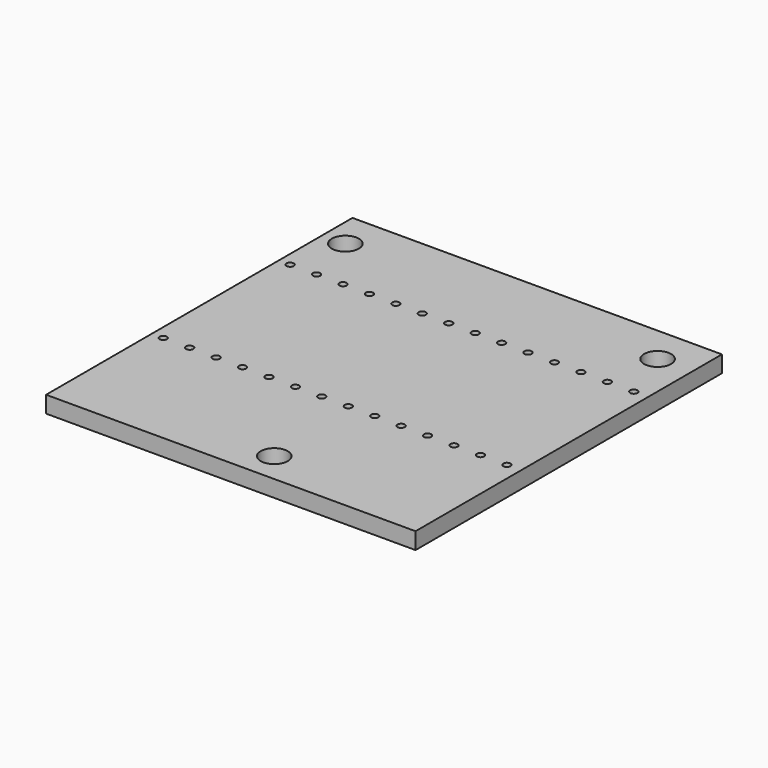
from build123d import *

# Parameters (mm, degrees)
CYLINDER008_R     = 0.35
CYLINDER008_DEPTH = 1.6
CYLINDER009_R     = 0.35
CYLINDER009_DEPTH = 1.6
CYLINDER013_R     = 0.35
CYLINDER013_DEPTH = 1.6
CYLINDER018_R     = 0.35
CYLINDER018_DEPTH = 1.6
CYLINDER012_R     = 0.35
CYLINDER012_DEPTH = 1.6
CYLINDER015_R     = 0.35
CYLINDER015_DEPTH = 1.6
CYLINDER014_R     = 0.35
CYLINDER014_DEPTH = 1.6
CYLINDER016_R     = 0.35
CYLINDER016_DEPTH = 1.6
CYLINDER011_R     = 0.35
CYLINDER011_DEPTH = 1.6
CYLINDER010_R     = 0.35
CYLINDER010_DEPTH = 1.6
CYLINDER019_R     = 0.35
CYLINDER019_DEPTH = 1.6
CYLINDER020_R     = 0.35
CYLINDER020_DEPTH = 1.6
CYLINDER017_R     = 0.35
CYLINDER017_DEPTH = 1.6
CYLINDER004_R     = 0.35
CYLINDER004_DEPTH = 1.6
CYLINDER002_R     = 1.3
CYLINDER002_DEPTH = 1.6
CYLINDER001_R     = 1.3
CYLINDER001_DEPTH = 1.6
CYLINDER_R        = 1.3
CYLINDER_DEPTH    = 1.6
BOX_W             = 35.5
BOX_H             = 36.8
BOX_DEPTH         = 1.6


with BuildPart() as cylinder008:
    # Cylinder008 → Cylinder008 (new body)
    with BuildSketch(Plane(origin=(1.1, 12.7, 0), x_dir=(1, 0, 0), z_dir=(0, 0, 1))):
        Circle(CYLINDER008_R)
    extrude(amount=CYLINDER008_DEPTH)


with BuildPart() as cylinder009:
    # Cylinder009 → Cylinder009 (new body)
    with BuildSketch(Plane(origin=(8.72, 12.7, 0), x_dir=(1, 0, 0), z_dir=(0, 0, 1))):
        Circle(CYLINDER009_R)
    extrude(amount=CYLINDER009_DEPTH)


with BuildPart() as cylinder013:
    # Cylinder013 → Cylinder013 (new body)
    with BuildSketch(Plane(origin=(18.88, 12.7, 0), x_dir=(1, 0, 0), z_dir=(0, 0, 1))):
        Circle(CYLINDER013_R)
    extrude(amount=CYLINDER013_DEPTH)


with BuildPart() as cylinder018:
    # Cylinder018 → Cylinder018 (new body)
    with BuildSketch(Plane(origin=(34.12, 12.7, 0), x_dir=(1, 0, 0), z_dir=(0, 0, 1))):
        Circle(CYLINDER018_R)
    extrude(amount=CYLINDER018_DEPTH)


with BuildPart() as cylinder012:
    # Cylinder012 → Cylinder012 (new body)
    with BuildSketch(Plane(origin=(13.8, 12.7, 0), x_dir=(1, 0, 0), z_dir=(0, 0, 1))):
        Circle(CYLINDER012_R)
    extrude(amount=CYLINDER012_DEPTH)


with BuildPart() as cylinder015:
    # Cylinder015 → Cylinder015 (new body)
    with BuildSketch(Plane(origin=(21.42, 12.7, 0), x_dir=(1, 0, 0), z_dir=(0, 0, 1))):
        Circle(CYLINDER015_R)
    extrude(amount=CYLINDER015_DEPTH)


with BuildPart() as cylinder014:
    # Cylinder014 → Cylinder014 (new body)
    with BuildSketch(Plane(origin=(23.96, 12.7, 0), x_dir=(1, 0, 0), z_dir=(0, 0, 1))):
        Circle(CYLINDER014_R)
    extrude(amount=CYLINDER014_DEPTH)


with BuildPart() as cylinder016:
    # Cylinder016 → Cylinder016 (new body)
    with BuildSketch(Plane(origin=(16.34, 12.7, 0), x_dir=(1, 0, 0), z_dir=(0, 0, 1))):
        Circle(CYLINDER016_R)
    extrude(amount=CYLINDER016_DEPTH)


with BuildPart() as cylinder011:
    # Cylinder011 → Cylinder011 (new body)
    with BuildSketch(Plane(origin=(11.26, 12.7, 0), x_dir=(1, 0, 0), z_dir=(0, 0, 1))):
        Circle(CYLINDER011_R)
    extrude(amount=CYLINDER011_DEPTH)


with BuildPart() as cylinder010:
    # Cylinder010 → Cylinder010 (new body)
    with BuildSketch(Plane(origin=(6.18, 12.7, 0), x_dir=(1, 0, 0), z_dir=(0, 0, 1))):
        Circle(CYLINDER010_R)
    extrude(amount=CYLINDER010_DEPTH)


with BuildPart() as cylinder019:
    # Cylinder019 → Cylinder019 (new body)
    with BuildSketch(Plane(origin=(31.58, 12.7, 0), x_dir=(1, 0, 0), z_dir=(0, 0, 1))):
        Circle(CYLINDER019_R)
    extrude(amount=CYLINDER019_DEPTH)


with BuildPart() as cylinder020:
    # Cylinder020 → Cylinder020 (new body)
    with BuildSketch(Plane(origin=(26.5, 12.7, 0), x_dir=(1, 0, 0), z_dir=(0, 0, 1))):
        Circle(CYLINDER020_R)
    extrude(amount=CYLINDER020_DEPTH)


with BuildPart() as cylinder017:
    # Cylinder017 → Cylinder017 (new body)
    with BuildSketch(Plane(origin=(29.04, 12.7, 0), x_dir=(1, 0, 0), z_dir=(0, 0, 1))):
        Circle(CYLINDER017_R)
    extrude(amount=CYLINDER017_DEPTH)


with BuildPart() as cylinder004:
    # Cylinder004 → Cylinder004 (new body)
    with BuildSketch(Plane(origin=(3.64, 12.7, 0), x_dir=(1, 0, 0), z_dir=(0, 0, 1))):
        Circle(CYLINDER004_R)
    extrude(amount=CYLINDER004_DEPTH)


with BuildPart() as compound001:
    # Compound001 base: copy of Cylinder004
    add(cylinder004.part)

    # Compound001: union Cylinder008, Cylinder009, Cylinder013, Cylinder018, Cylinder012, Cylinder015, Cylinder014, Cylinder016, Cylinder011, Cylinder010, Cylinder019, Cylinder020, Cylinder017
    add(cylinder008.part)
    add(cylinder009.part)
    add(cylinder013.part)
    add(cylinder018.part)
    add(cylinder012.part)
    add(cylinder015.part)
    add(cylinder014.part)
    add(cylinder016.part)
    add(cylinder011.part)
    add(cylinder010.part)
    add(cylinder019.part)
    add(cylinder020.part)
    add(cylinder017.part)


with BuildPart() as compound001_1:
    # Compound001 placement: moved
    add(compound001.part.moved(Location((0, 15.24, 0))))


with BuildPart() as compound:
    # Compound base: copy of Cylinder004
    add(cylinder004.part)

    # Compound: union Cylinder008, Cylinder009, Cylinder013, Cylinder018, Cylinder012, Cylinder015, Cylinder014, Cylinder016, Cylinder011, Cylinder010, Cylinder019, Cylinder020, Cylinder017
    add(cylinder008.part)
    add(cylinder009.part)
    add(cylinder013.part)
    add(cylinder018.part)
    add(cylinder012.part)
    add(cylinder015.part)
    add(cylinder014.part)
    add(cylinder016.part)
    add(cylinder011.part)
    add(cylinder010.part)
    add(cylinder019.part)
    add(cylinder020.part)
    add(cylinder017.part)


with BuildPart() as cylinder002:
    # Cylinder002 → Cylinder002 (new body)
    with BuildSketch(Plane(origin=(32.2, 33.2, 0), x_dir=(1, 0, 0), z_dir=(0, 0, 1))):
        Circle(CYLINDER002_R)
    extrude(amount=CYLINDER002_DEPTH)


with BuildPart() as cylinder001:
    # Cylinder001 → Cylinder001 (new body)
    with BuildSketch(Plane(origin=(2.2, 33.2, 0), x_dir=(1, 0, 0), z_dir=(0, 0, 1))):
        Circle(CYLINDER001_R)
    extrude(amount=CYLINDER001_DEPTH)


with BuildPart() as cylinder:
    # Cylinder → Cylinder (new body)
    with BuildSketch(Plane(origin=(19.6, 2.9, 0), x_dir=(1, 0, 0), z_dir=(0, 0, 1))):
        Circle(CYLINDER_R)
    extrude(amount=CYLINDER_DEPTH)


with BuildPart() as main_board:
    # Box → Box (new body)
    with BuildSketch(Plane.XY):
        with Locations((17.75, 18.4)):
            Rectangle(BOX_W, BOX_H)
    extrude(amount=BOX_DEPTH)

    # Cut: cut Cylinder
    add(cylinder.part, mode=Mode.SUBTRACT)

    # Cut001: cut Cylinder001
    add(cylinder001.part, mode=Mode.SUBTRACT)

    # Cut002: cut Cylinder002
    add(cylinder002.part, mode=Mode.SUBTRACT)

    # Cut004: cut Compound
    add(compound.part, mode=Mode.SUBTRACT)

    # Cut005: cut Compound001
    add(compound001_1.part, mode=Mode.SUBTRACT)


solid = main_board.part
